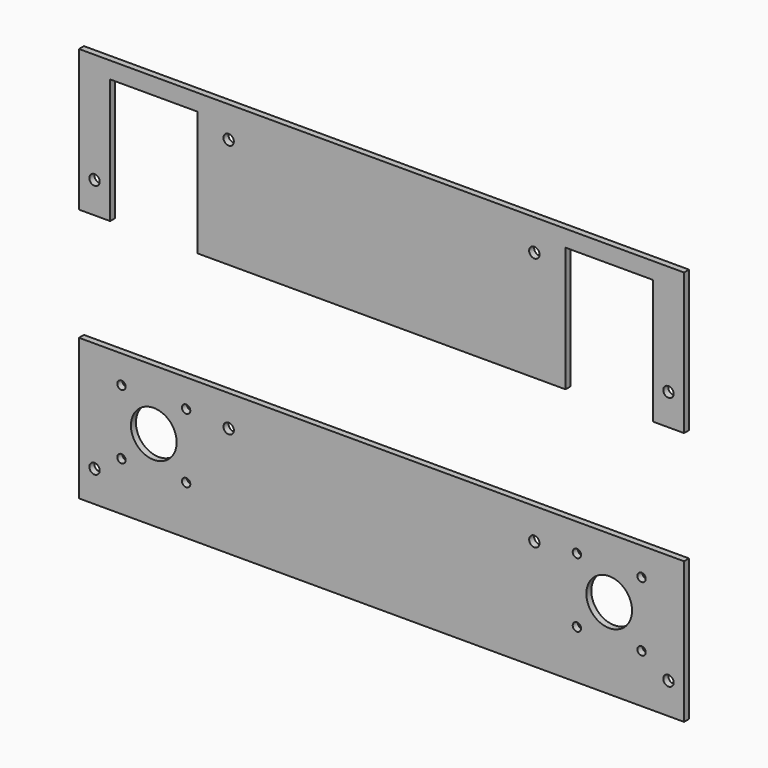
from build123d import *

# Parameters (mm, degrees)
F0_R     = 2.5
F0_W     = 291
F0_H     = 68
F0_R_2   = 2
F0_R_3   = 11
F1_DEPTH = 3


with BuildPart() as f1:
    # F0 (on Front) → F1 (new body)
    with BuildSketch(Plane.XZ):
        Polygon((47.557675, 89.969031), (-243.442325, 89.969031), (-243.442325, 21.969031), (-228.442325, 21.969031), (-228.442325, 81.969031), (-186.442325, 81.969031), (-186.442325, 21.969031), (-9.442325, 21.969031), (-9.442325, 81.969031), (32.557675, 81.969031), (32.557675, 21.969031), (47.557675, 21.969031), align=None)
        with Locations((-235.942325, 36.969031)):
            Circle(F0_R, mode=Mode.SUBTRACT)
        with Locations((-171.442325, 74.969031)):
            Circle(F0_R, mode=Mode.SUBTRACT)
        with Locations((40.057675, 36.969031)):
            Circle(F0_R, mode=Mode.SUBTRACT)
        with Locations((-24.442325, 74.969031)):
            Circle(F0_R, mode=Mode.SUBTRACT)
        with Locations((-97.942325, -66.285209)):
            Rectangle(F0_W, F0_H)
        with Locations((-235.942325, -85.285209)):
            Circle(F0_R, mode=Mode.SUBTRACT)
        with Locations((-222.998675, -76.841558)):
            Circle(F0_R_2, mode=Mode.SUBTRACT)
        with Locations((-191.885976, -76.841558)):
            Circle(F0_R_2, mode=Mode.SUBTRACT)
        with Locations((-207.442325, -61.285209)):
            Circle(F0_R_3, mode=Mode.SUBTRACT)
        with Locations((-222.998675, -45.72886)):
            Circle(F0_R_2, mode=Mode.SUBTRACT)
        with Locations((-191.885976, -45.72886)):
            Circle(F0_R_2, mode=Mode.SUBTRACT)
        with Locations((-171.442325, -47.285209)):
            Circle(F0_R, mode=Mode.SUBTRACT)
        with Locations((-3.998675, -76.841558)):
            Circle(F0_R_2, mode=Mode.SUBTRACT)
        with Locations((27.114024, -76.841558)):
            Circle(F0_R_2, mode=Mode.SUBTRACT)
        with Locations((40.057675, -85.285209)):
            Circle(F0_R, mode=Mode.SUBTRACT)
        with Locations((11.557675, -61.285209)):
            Circle(F0_R_3, mode=Mode.SUBTRACT)
        with Locations((-24.442325, -47.285209)):
            Circle(F0_R, mode=Mode.SUBTRACT)
        with Locations((-3.998675, -45.72886)):
            Circle(F0_R_2, mode=Mode.SUBTRACT)
        with Locations((27.114024, -45.72886)):
            Circle(F0_R_2, mode=Mode.SUBTRACT)
    extrude(amount=F1_DEPTH)


solid = f1.part
